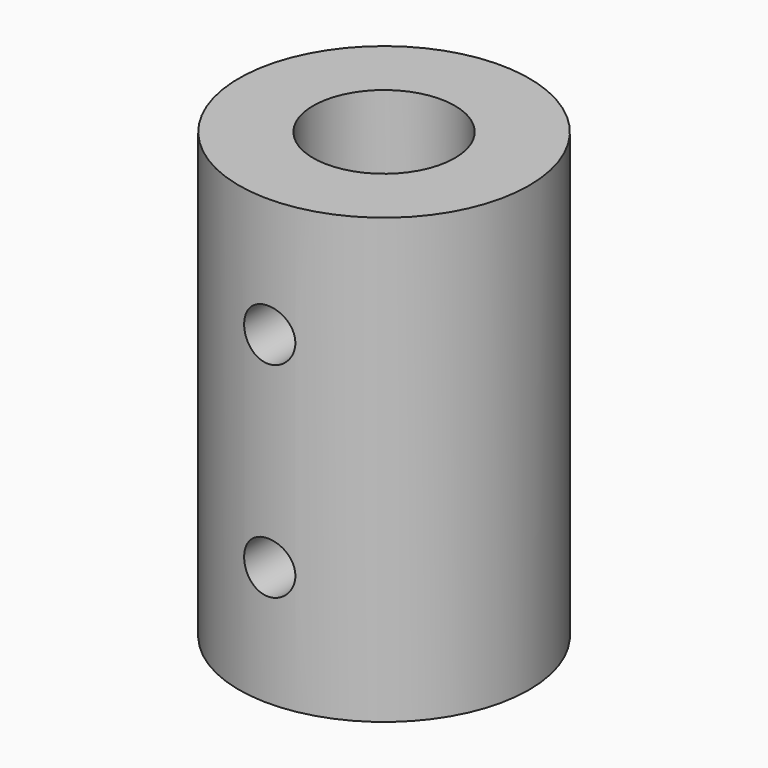
from build123d import *

# Parameters (mm, degrees)
F0_R          = 8.5
F0_R_2        = 2.45
F1_DEPTH      = 26
F2_R          = 4.15
F2_R_2        = 2.45
F3_DEPTH      = 13
F4_R          = 1.5
F5_DEPTH      = 25
F5_DEPTH_BACK = 25


with BuildPart() as f1:
    # F0 (on Top) → F1 (new body)
    with BuildSketch(Plane.XY):
        Circle(F0_R)
        Circle(F0_R_2, mode=Mode.SUBTRACT)
    extrude(amount=F1_DEPTH)

    # F2 (on face) → F3 (cut)
    with BuildSketch(Plane.XY.offset(26)):
        Circle(F2_R)
        Circle(F2_R_2, mode=Mode.SUBTRACT)
    extrude(amount=-F3_DEPTH, mode=Mode.SUBTRACT)

    # F4 (on Front) → F5 (cut, two sides)
    with BuildSketch(Plane.XZ) as f5_sk:
        with Locations((0, 19)):
            Circle(F4_R)
        with Locations((0, 7)):
            Circle(F4_R)
    extrude(amount=-F5_DEPTH, mode=Mode.SUBTRACT)
    extrude(f5_sk.sketch, amount=F5_DEPTH_BACK, mode=Mode.SUBTRACT)


solid = f1.part
